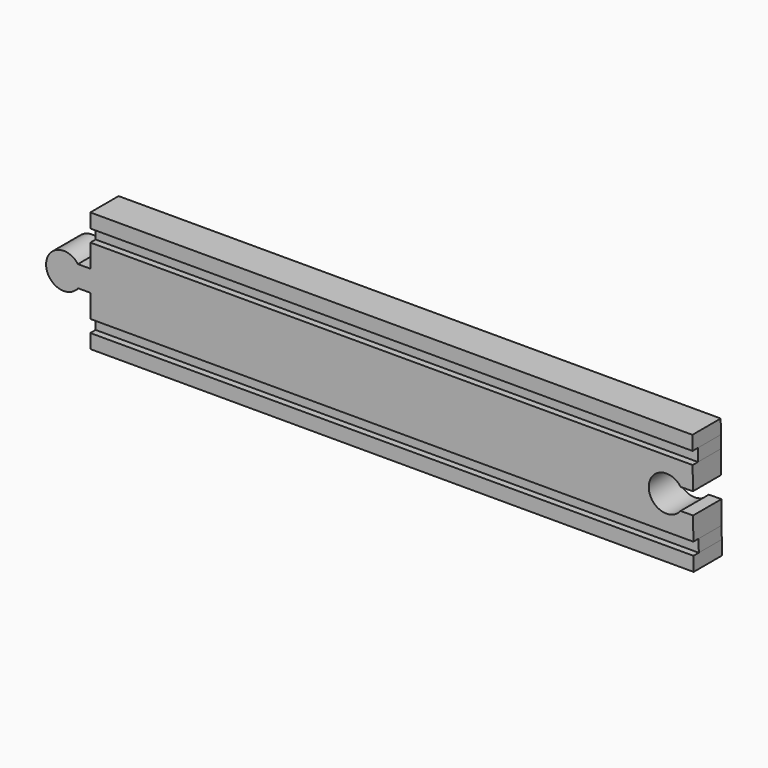
from build123d import *

# Parameters (mm, degrees)
F1_DEPTH = 25.4
F2_DEPTH = 20.6375


with BuildPart() as f1:
    # F0 (on Front) → F1 (new body)
    with BuildSketch(Plane.XZ):
        with BuildLine():
            Line((243.536931, 38.968073), (-188.834176, 38.968073))
            Line((-188.834176, 38.968073), (-188.834176, 22.458073))
            Line((-188.834176, 22.458073), (-188.834176, 7.218073))
            Line((-188.834176, 7.218073), (-188.834176, -9.291927))
            Line((-188.834176, -9.291927), (244.021843, -9.291927))
            Line((244.021843, -9.291927), (243.855952, 7.218073))
            Line((243.855952, 7.218073), (234.813271, 7.127213))
            ThreePointArc((234.813271, 7.127213), (212.022547, 14.949858), (234.947443, 22.370099))
            Line((234.947443, 22.370099), (243.702822, 22.458073))
            Line((243.702822, 22.458073), (243.536931, 38.968073))
        make_face()
        Polygon((244.111169, -18.181927), (-188.834176, -18.181927), (-188.834176, -28.341927), (244.213256, -28.341927), align=None)
        with BuildLine():
            ThreePointArc((-195.184176, 14.838073), (-195.835898, 18.854165), (-197.724176, 22.458073))
            ThreePointArc((-197.724176, 22.458073), (-220.584176, 14.838073), (-197.724176, 7.218073))
            ThreePointArc((-197.724176, 7.218073), (-195.835898, 10.82198), (-195.184176, 14.838073))
        make_face()
        with BuildLine():
            Line((-188.834176, 7.218073), (-188.834176, 22.458073))
            Line((-188.834176, 22.458073), (-197.724176, 22.458073))
            ThreePointArc((-197.724176, 22.458073), (-195.835898, 18.854165), (-195.184176, 14.838073))
            ThreePointArc((-195.184176, 14.838073), (-195.835898, 10.82198), (-197.724176, 7.218073))
            Line((-197.724176, 7.218073), (-188.834176, 7.218073))
        make_face()
        Polygon((243.345518, 58.018073), (-188.834176, 58.018073), (-188.834176, 47.858073), (243.447605, 47.858073), align=None)
    extrude(amount=F1_DEPTH)


with BuildPart() as f2:
    # F0 (on Front) → F2 (new body)
    with BuildSketch(Plane.XZ):
        Polygon((243.447605, 47.858073), (-188.834176, 47.858073), (-188.834176, 38.968073), (243.536931, 38.968073), align=None)
        Polygon((244.021843, -9.291927), (-188.834176, -9.291927), (-188.834176, -18.181927), (244.111169, -18.181927), align=None)
    extrude(amount=F2_DEPTH)


solid = Compound([f1.part, f2.part])
